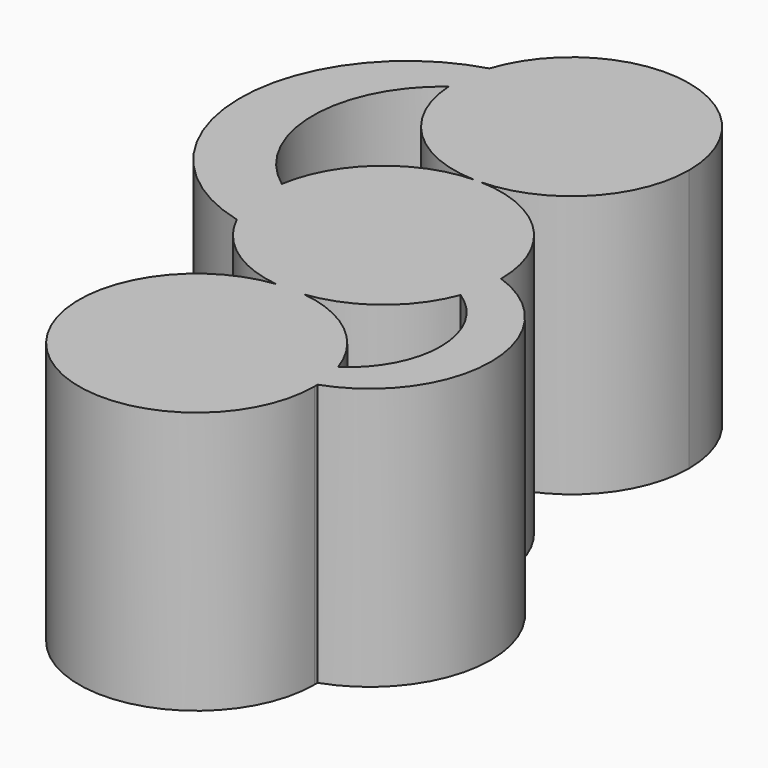
from build123d import *

# Parameters (mm, degrees)
F1_DEPTH = 25


with BuildPart() as f1:
    # F0 (on Top) → F1 (new body)
    with BuildSketch(Plane.XY):
        with BuildLine():
            ThreePointArc((-0.3111750606, 11.1956764013), (-7.4017548814, 8.4055948436), (-11.0663750249, 1.7249184932))
            ThreePointArc((-11.0663750249, 1.7249184932), (-11.0810170285, -1.6282080989), (-10.1024246207, -4.8353921022))
            ThreePointArc((-10.1024246207, -4.8353921022), (-6.5247892852, -9.1031381833), (-1.3339990852, -11.120271869))
            ThreePointArc((-1.3339990852, -11.120271869), (0, -11.040543738), (1.3339990852, -11.120271869))
            ThreePointArc((1.3339990852, -11.120271869), (6.9190712637, -8.8071818902), (10.4884666015, -3.9283671354))
            ThreePointArc((10.4884666015, -3.9283671354), (11.0206811481, -1.9961430389), (11.2, 0))
            ThreePointArc((11.2, 0), (8.0288592178, 7.808803984), (0.3111750606, 11.1956764013))
            ThreePointArc((0.3111750606, 11.1956764013), (0, 11.1913528025), (-0.3111750606, 11.1956764013))
        make_face()
        with BuildLine():
            ThreePointArc((-10.1024246207, -4.8353921022), (-11.0810170285, -1.6282080989), (-11.0663750249, 1.7249184932))
            ThreePointArc((-11.0663750249, 1.7249184932), (-16.1436885781, 11.6980871603), (-11.1803662832, 21.7284728944))
            ThreePointArc((-11.1803662832, 21.7284728944), (-11.10579848, 23.8409182968), (-10.6356586789, 25.9017323357))
            ThreePointArc((-10.6356586789, 25.9017323357), (-22.131772625, 10.3291078016), (-10.1024246207, -4.8353921022))
        make_face()
        with BuildLine():
            ThreePointArc((-11.1803662832, 21.7284728944), (-7.7941536491, 14.3482707506), (-0.3111750606, 11.1956764013))
            ThreePointArc((-0.3111750606, 11.1956764013), (0, 11.2), (0.3111750606, 11.1956764013))
            ThreePointArc((0.3111750606, 11.1956764013), (8.0288592178, 14.5825488185), (11.2, 22.3913528025))
            ThreePointArc((11.2, 22.3913528025), (1.777726469, 33.4493674797), (-10.6356586789, 25.9017323357))
            ThreePointArc((-10.6356586789, 25.9017323357), (-11.10579848, 23.8409182968), (-11.1803662832, 21.7284728944))
        make_face()
        with BuildLine():
            ThreePointArc((0.3111750606, 11.1956764013), (0, 11.2), (-0.3111750606, 11.1956764013))
            ThreePointArc((-0.3111750606, 11.1956764013), (0, 11.1913528025), (0.3111750606, 11.1956764013))
        make_face()
        with BuildLine():
            ThreePointArc((1.3339990852, -11.120271869), (0, -11.040543738), (-1.3339990852, -11.120271869))
            ThreePointArc((-1.3339990852, -11.120271869), (0, -11.2), (1.3339990852, -11.120271869))
        make_face()
        with BuildLine():
            ThreePointArc((1.3339990852, -11.120271869), (0, -11.2), (-1.3339990852, -11.120271869))
            ThreePointArc((-1.3339990852, -11.120271869), (-7.4330078113, -30.6185145471), (11.2, -22.240543738))
            ThreePointArc((11.2, -22.240543738), (11.1983095854, -22.0459610337), (11.193238852, -21.851437066))
            ThreePointArc((11.193238852, -21.851437066), (11.0205922894, -20.2439101733), (10.6182959163, -18.6779896214))
            ThreePointArc((10.6182959163, -18.6779896214), (7.0706515511, -13.5545845715), (1.3339990852, -11.120271869))
        make_face()
        with BuildLine():
            ThreePointArc((11.193238852, -21.851437066), (18.9710900132, -10.9281240657), (11.2, 0))
            ThreePointArc((11.2, 0), (11.0206811481, -1.9961430389), (10.4884666015, -3.9283671354))
            ThreePointArc((10.4884666015, -3.9283671354), (14.5159030008, -11.2682994191), (10.6182959163, -18.6779896214))
            ThreePointArc((10.6182959163, -18.6779896214), (11.0205922894, -20.2439101733), (11.193238852, -21.851437066))
        make_face()
    extrude(amount=F1_DEPTH)


solid = f1.part
